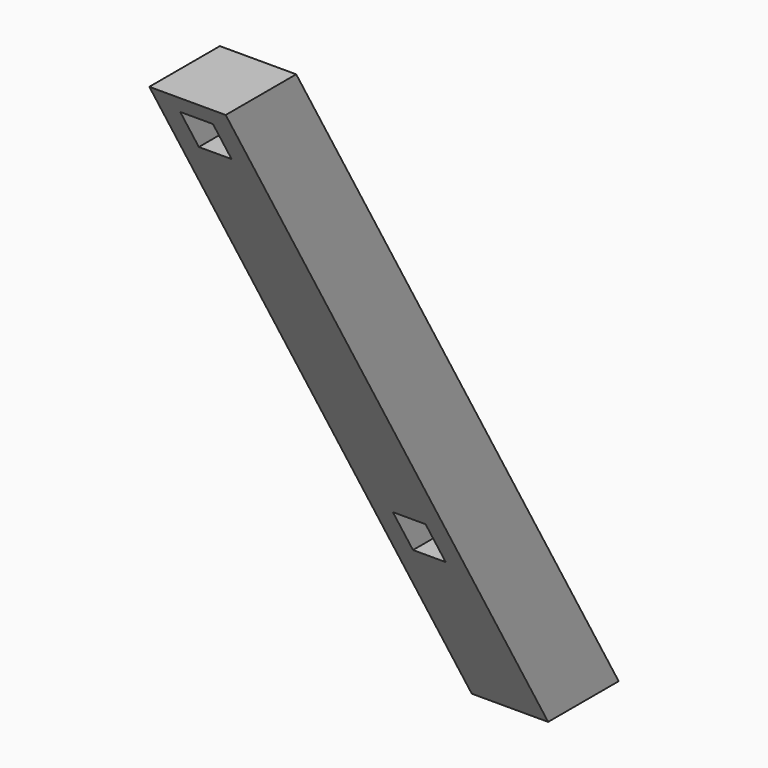
from build123d import *

# Parameters (mm, degrees)
F1_DEPTH = 44.45
F3_W     = 38.1
F3_H     = 50.8
F4_DEPTH = 76.2
F6_W     = 38.1
F6_H     = 50.8
F7_DEPTH = 76.2


with BuildPart() as f1:
    # F0 (on Right) → F1 (new body, symmetric)
    with BuildSketch(Plane.YZ):
        Polygon((-182.88, 406.4), (-285.496, 406.4), (183.774299, -406.4), (286.390299, -406.4), align=None)
    extrude(amount=F1_DEPTH, both=True)

    # F3 (on offset) → F4 (cut)
    with BuildSketch(Plane.XZ.offset(272.288)):
        with Locations((0, 361.95)):
            Rectangle(F3_W, F3_H)
    extrude(amount=-F4_DEPTH, mode=Mode.SUBTRACT)

    # F6 (on offset) → F7 (cut)
    with BuildSketch(Plane.XZ.offset(-101.6)):
        with Locations((0, -177.8)):
            Rectangle(F6_W, F6_H)
    extrude(amount=F7_DEPTH, mode=Mode.SUBTRACT)


solid = f1.part
